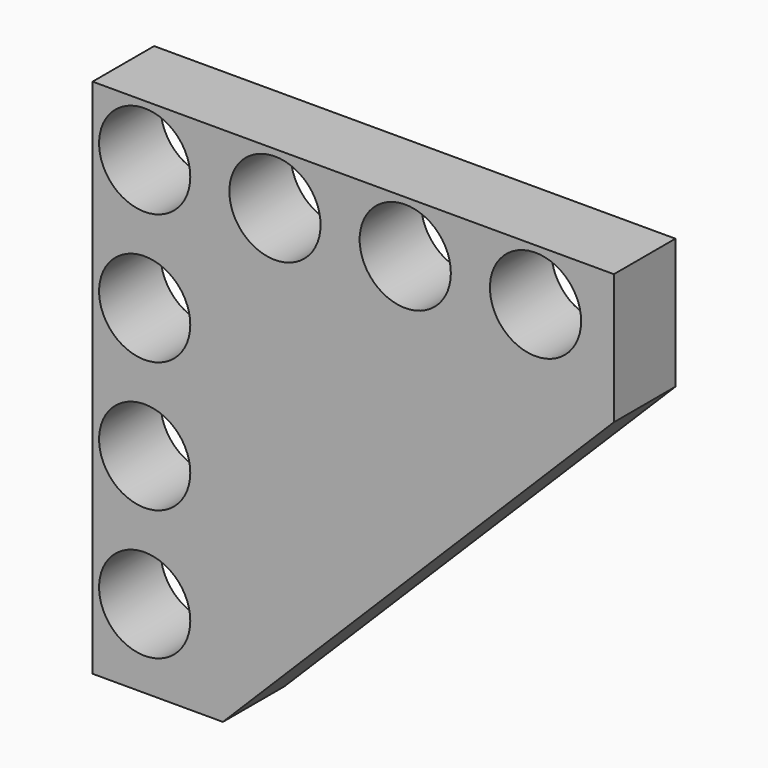
from build123d import *

# Parameters (mm, degrees)
F1_DEPTH = 15
F2_R     = 8.89
F3_DEPTH = 508


with BuildPart() as f1:
    # F0 (on Front) → F1 (new body)
    with BuildSketch(Plane.XZ):
        Polygon((57.845067, 46.221994), (-43.789256, 46.221994), (-43.789256, -55.412333), (-18.380675, -55.412333), (57.845067, 20.813413), align=None)
    extrude(amount=F1_DEPTH)

    # F2 (on face) → F3 (cut)
    with BuildSketch(Plane.XZ.offset(15)):
        with Locations((-33.629256, 36.061994)):
            Circle(F2_R)
        with Locations((-33.629256, 10.661994)):
            Circle(F2_R)
        with Locations((-33.629256, -14.738006)):
            Circle(F2_R)
        with Locations((-33.629256, -40.138006)):
            Circle(F2_R)
        with Locations((-8.229256, 36.061994)):
            Circle(F2_R)
        with Locations((17.170744, 36.061994)):
            Circle(F2_R)
        with Locations((42.570744, 36.061994)):
            Circle(F2_R)
    extrude(amount=-F3_DEPTH, mode=Mode.SUBTRACT)


solid = f1.part
